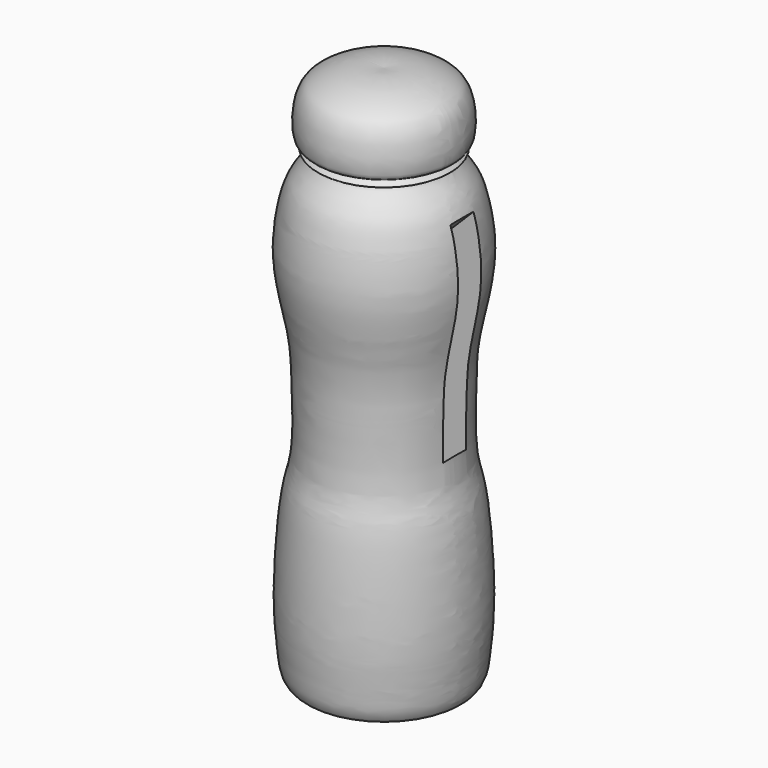
from build123d import *

# Parameters (mm, degrees)
F4_W          = 50
F4_H          = 10
F5_DEPTH      = 20
F5_DEPTH_BACK = 80


with BuildPart() as f1:
    # F0 (on Front) → F1 (revolve)
    with BuildSketch(Plane.XZ):
        with BuildLine():
            add(Edge.make_bspline(
                [(0, 99.420696497), (-2.7890297513, 99.6484096801), (-8.7253584544, 100.1330873013), (-19.9332210439, 96.4121537294), (-24.8657530113, 91.1933465865), (-25.1796364425, 78.3715255411), (-22.8708120429, 77.1334603432), (-21.2021850906, 76.4297003137), (-23.5462907756, 75.3035845624), (-22.1689740493, 74.2699337516), (-18.4553824081, 74.0207888418), (-26.2375139416, 67.4642675892), (-29.3454560768, 56.0501408061), (-31.0384943756, 39.6149818934), (-25.3362224954, 18.4744767925), (-25.109248816, 5.4117626896), (-24.3536831673, -17.9362101549), (-27.7357562726, -27.2441906486), (-29.4564737741, -45.742323148), (-30.0825007706, -64.3023658975), (-28.9789391604, -76.1285410384), (-28.0322936353, -85.7618419689), (-22.85204026, -87.5923481207), (-7.1134609996, -89.5974755076), (-2.046910056, -88.9648596375), (0, -88.7092798948)],
                knots=[0, 0, 0, 0, 0.0428808533, 0.0912700339, 0.1301102877, 0.179346752, 0.2011637262, 0.2158439647, 0.2340973526, 0.2495242786, 0.2704417239, 0.3093590616, 0.3602322457, 0.4193029419, 0.4857895528, 0.5402629942, 0.6083490178, 0.6546837715, 0.7161076104, 0.7793148414, 0.8300452532, 0.8718584722, 0.9035567053, 0.9610364621, 1, 1, 1, 1], degree=3))
            Line((0, -88.7092798948), (0, 99.420696497))
        make_face()
    revolve(axis=Axis((0, 0, 5.3557083011), (0, 0, 1)))

    # F4 (on line) → F5 (cut, two sides)
    with BuildSketch(Plane(origin=(0, 0, 0), x_dir=(0.7071067812, 0, -0.7071067812), z_dir=(0.7071067812, 0, 0.7071067812))) as f5_sk:
        Rectangle(F4_W, F4_H)
    extrude(amount=-F5_DEPTH, mode=Mode.SUBTRACT)
    extrude(f5_sk.sketch, amount=F5_DEPTH_BACK, mode=Mode.SUBTRACT)


solid = f1.part
